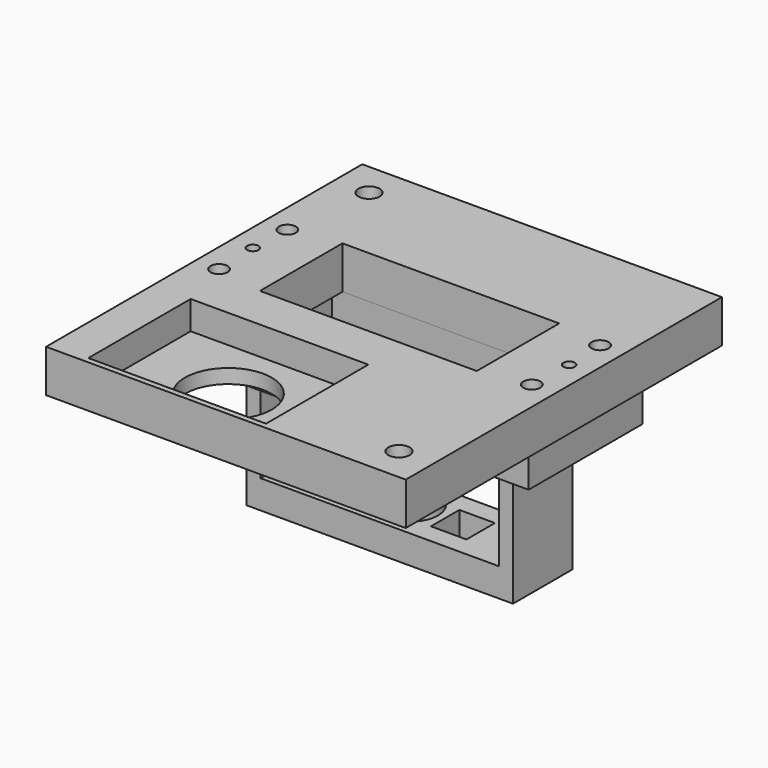
from build123d import *

# Parameters (mm, degrees)
F0_W     = 50.6
F0_H     = 55.6
F0_R     = 6.1
F0_R_2   = 1.2
F0_R_3   = 1.5
F0_R_4   = 0.8
F0_W_2   = 30.5
F0_H_2   = 14.5
F1_DEPTH = 6
F2_W     = 25
F2_H     = 18
F3_DEPTH = 4
F4_W     = 49.5
F4_H     = 20
F4_R     = 1.5
F4_W_2   = 33.5
F4_H_2   = 14.5
F5_DEPTH = 4.5
F6_W     = 2
F6_H     = 10.5
F7_DEPTH = 14
F8_W     = 37.5
F8_H     = 10.5
F8_W_2   = 5
F8_H_2   = 5
F8_R     = 4
F9_DEPTH = 4


with BuildPart() as f1:
    # F0 (on Top) → F1 (new body)
    with BuildSketch(Plane.XY):
        Rectangle(F0_W, F0_H)
        with Locations((-7.5, -18)):
            Circle(F0_R, mode=Mode.SUBTRACT)
        with Locations((-22, -1.5)):
            Circle(F0_R_2, mode=Mode.SUBTRACT)
        with Locations((20.5, -23)):
            Circle(F0_R_3, mode=Mode.SUBTRACT)
        with Locations((22, -1.5)):
            Circle(F0_R_2, mode=Mode.SUBTRACT)
        with Locations((-22.25, 4.75)):
            Circle(F0_R_4, mode=Mode.SUBTRACT)
        with Locations((-22, 10.5)):
            Circle(F0_R_2, mode=Mode.SUBTRACT)
        with Locations((-20.5, 23)):
            Circle(F0_R_3, mode=Mode.SUBTRACT)
        with Locations((0, 4.5)):
            Rectangle(F0_W_2, F0_H_2, mode=Mode.SUBTRACT)
        with Locations((22.25, 4.75)):
            Circle(F0_R_4, mode=Mode.SUBTRACT)
        with Locations((22, 10.5)):
            Circle(F0_R_2, mode=Mode.SUBTRACT)
    extrude(amount=F1_DEPTH)

    # F2 (on face) → F3 (cut)
    with BuildSketch(Plane.XY.offset(6)):
        with Locations((-7.5, -18)):
            Rectangle(F2_W, F2_H)
    extrude(amount=-F3_DEPTH, mode=Mode.SUBTRACT)


with BuildPart() as f5:
    # F4 (on face) → F5 (new body)
    with BuildSketch(Plane(origin=(0, 0, 0), x_dir=(1, 0, 0), z_dir=(0, 0, -1))):
        with Locations((0, -4.5)):
            Rectangle(F4_W, F4_H)
        with Locations((-22, -10.5)):
            Circle(F4_R, mode=Mode.SUBTRACT)
        with Locations((22, -10.5)):
            Circle(F4_R, mode=Mode.SUBTRACT)
        with Locations((-22, 1.5)):
            Circle(F4_R, mode=Mode.SUBTRACT)
        with Locations((0, -4.5)):
            Rectangle(F4_W_2, F4_H_2, mode=Mode.SUBTRACT)
        with Locations((22, 1.5)):
            Circle(F4_R, mode=Mode.SUBTRACT)
    extrude(amount=F5_DEPTH)

    # F6 (on face) → F7 (join)
    with BuildSketch(Plane(origin=(0, 0, -4.5), x_dir=(1, 0, 0), z_dir=(0, 0, -1))):
        with Locations((17.75, -4.5)):
            Rectangle(F6_W, F6_H)
        with Locations((-17.75, -4.5)):
            Rectangle(F6_W, F6_H)
    extrude(amount=F7_DEPTH)

    # F8 (on face) → F9 (join)
    with BuildSketch(Plane(origin=(0, 0, -18.5), x_dir=(1, 0, 0), z_dir=(0, 0, -1))):
        with Locations((0, -4.5)):
            Rectangle(F8_W, F8_H)
        with Locations((-7.5, -4.5)):
            Rectangle(F8_W_2, F8_H_2, mode=Mode.SUBTRACT)
        with Locations((0, -4.5)):
            Circle(F8_R, mode=Mode.SUBTRACT)
        with Locations((7.5, -4.5)):
            Rectangle(F8_W_2, F8_H_2, mode=Mode.SUBTRACT)
    extrude(amount=F9_DEPTH)


solid = Compound([f1.part, f5.part])
